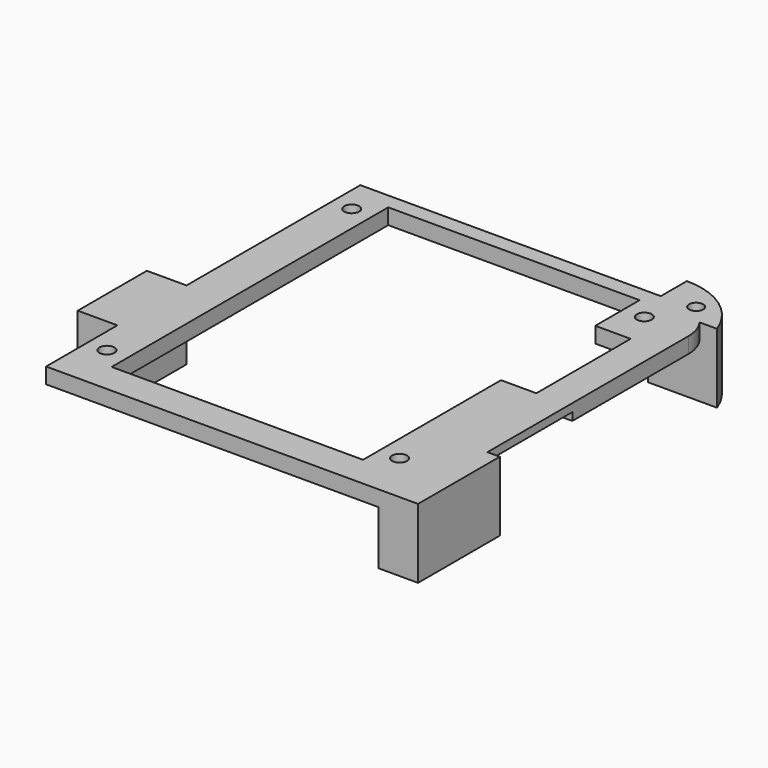
from build123d import *

# Parameters (mm, degrees)
PAD035_DEPTH    = 2
POCKET034_DEPTH = 5
SKETCH080_R     = 0.95
POCKET035_DEPTH = 5
SKETCH081_W     = 5.05
SKETCH081_H     = 13
SKETCH081_H_2   = 11
PAD041_DEPTH    = 8.85
SKETCH082_R     = 0.9
HOLE_DEPTH      = 25
SKETCH086_W     = 8.625
SKETCH086_H     = 13.5
POCKET036_DEPTH = 1


with BuildPart() as part:
    # Sketch071 → Pad035 (new body)
    with BuildSketch(Plane.XY):
        with BuildLine():
            Line((-21.15, 36), (-21.15, -14))
            Line((-21.15, -14), (24.625, -14))
            Line((24.625, -14), (24.625, 31))
            ThreePointArc((24.625, 31), (23.160534, 34.535534), (19.625, 36))
            Line((19.625, 36), (-21.15, 36))
        make_face()
    extrude(amount=-PAD035_DEPTH)

    # Sketch079 (on Face6 of Pad035) → Pocket034 (cut)
    with BuildSketch(Plane.XY):
        Polygon((-16, 34), (-16, -10), (16, -10), (16, 11.95), (20.5, 11.95), (20.5, 26.95), (16, 26.95), (16, 34), align=None)
    extrude(amount=-POCKET034_DEPTH, mode=Mode.SUBTRACT)

    # Sketch080 (on Face4 of Pocket034) → Pocket035 (cut)
    with BuildSketch(Plane.XY):
        with Locations((-18.625, 31.475)):
            Circle(SKETCH080_R)
        with Locations((18.625, 31.475)):
            Circle(SKETCH080_R)
        with Locations((18.625, -7.475)):
            Circle(SKETCH080_R)
        with Locations((-18.625, -7.475)):
            Circle(SKETCH080_R)
    extrude(amount=-POCKET035_DEPTH, mode=Mode.SUBTRACT)

    # Sketch081 (on Face4 of Pocket035) → Pad041 (join)
    with BuildSketch(Plane.XY):
        with Locations((23.675, -7.5)):
            Rectangle(SKETCH081_W, SKETCH081_H)
        with Locations((-23.675, 2.850002)):
            Rectangle(SKETCH081_W, SKETCH081_H_2)
        with BuildLine():
            ThreePointArc((25.850286, 34), (22.447663, 38.458712), (17.1, 40.15))
            Line((17.1, 36), (17.1, 40.15))
            Line((17.1, 36), (17.1, 34))
            Line((17.1, 34), (25.850286, 34))
        make_face()
    extrude(amount=-PAD041_DEPTH)

    # Sketch082 (on Face32 of Pad041) → Hole (cut)
    with BuildSketch(Plane.XY):
        with Locations((21.291797, 36.391807)):
            Circle(SKETCH082_R)
    extrude(amount=-HOLE_DEPTH, mode=Mode.SUBTRACT)

    # Sketch086 (on Face4 of Hole) → Pocket036 (cut)
    with BuildSketch(Plane(origin=(0, 0, -2), x_dir=(1, 0, 0), z_dir=(0, 0, -1))):
        with Locations((20.3125, -5.775)):
            Rectangle(SKETCH086_W, SKETCH086_H)
    extrude(amount=-POCKET036_DEPTH, mode=Mode.SUBTRACT)


with BuildPart() as part_1:
    # Body010 placement: moved
    add(part.part.moved(Location((0, 0, 19.1))))


solid = part_1.part
